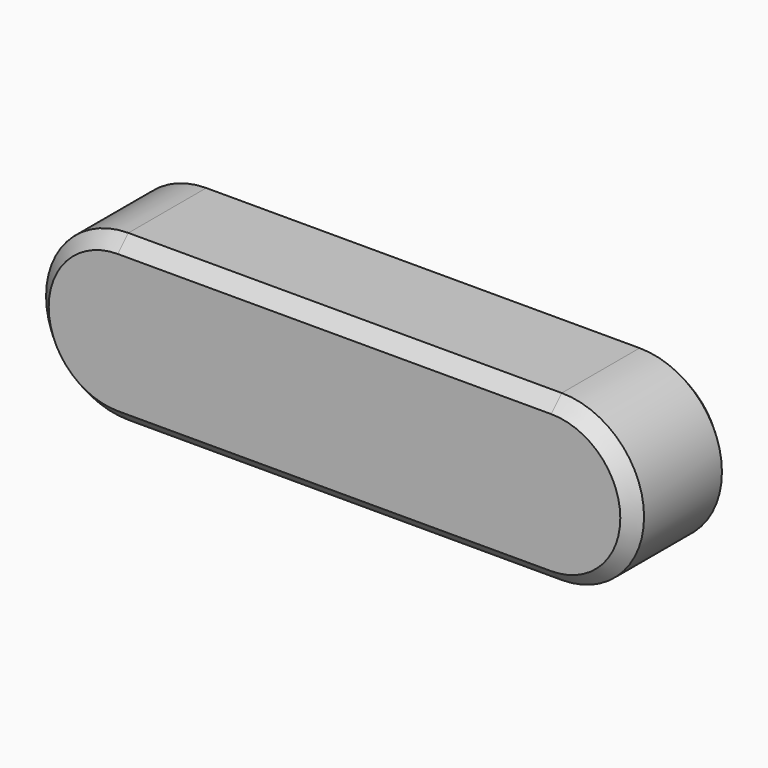
from build123d import *

# Parameters (mm, degrees)
F0_W     = 66.7258
F0_H     = 12.6746
F1_DEPTH = 19.05
F2_SIZE  = 2.032
F3_SIZE  = 2.032


with BuildPart() as f1:
    # F0 (on Front) → F1 (new body)
    with BuildSketch(Plane.XZ):
        with BuildLine():
            ThreePointArc((0, 25.3492), (-12.6746, 12.6746), (0, 0))
            Line((0, 0), (0, 12.6746))
            Line((0, 12.6746), (0, 25.3492))
        make_face()
        with Locations((33.3629, 19.0119)):
            Rectangle(F0_W, F0_H)
        with Locations((33.3629, 6.3373)):
            Rectangle(F0_W, F0_H)
        with BuildLine():
            Line((66.7258, 12.6746), (66.7258, 0))
            ThreePointArc((66.7258, 0), (79.4004, 12.6746), (66.7258, 25.3492))
            Line((66.7258, 25.3492), (66.7258, 12.6746))
        make_face()
    extrude(amount=F1_DEPTH)

    # F2
    f2_edges = [f1.edges().sort_by_distance(p)[0] for p in [
        (-12.6746, 0, 12.6746),
        (33.3629, 0, 0),
        (79.4004, 0, 12.6746),
        (33.3629, 0, 25.3492),
    ]]
    chamfer(f2_edges, length=F2_SIZE)

    # F3
    f3_edges = [f1.edges().sort_by_distance(p)[0] for p in [
        (-12.6746, -19.05, 12.6746),
        (33.3629, -19.05, 0),
        (79.4004, -19.05, 12.6746),
        (33.3629, -19.05, 25.3492),
    ]]
    chamfer(f3_edges, length=F3_SIZE)


solid = f1.part
